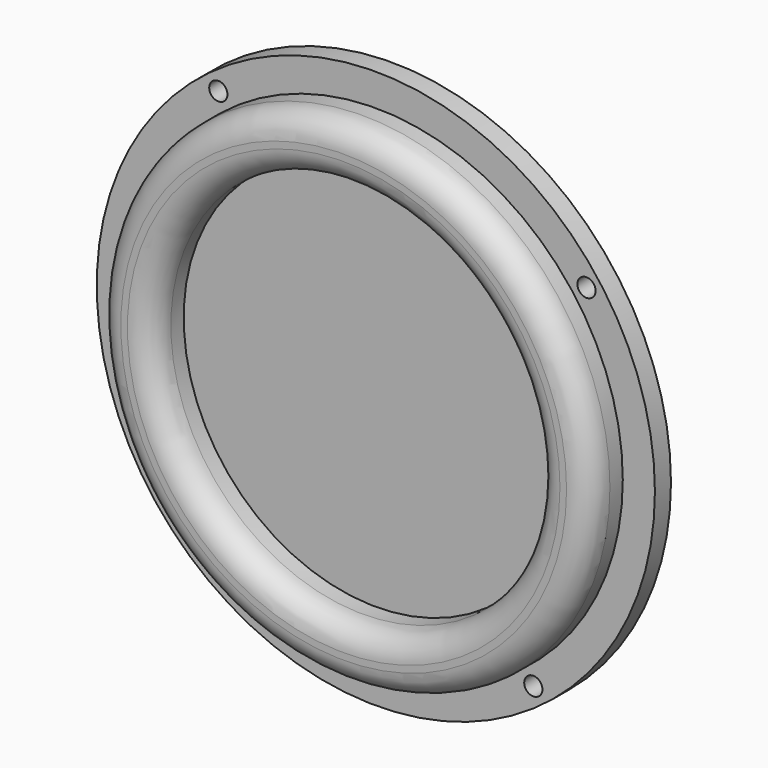
from build123d import *

# Parameters (mm, degrees)
F0_R     = 78.105
F0_R_2   = 60.772539
F1_DEPTH = 12.7
F0_R_3   = 88.265
F0_R_4   = 2.879872
F2_DEPTH = 6.35
F3_R     = 7.62
F4_DEPTH = 6.35


with BuildPart() as f1:
    # F0 (on Front) → F1 (new body)
    with BuildSketch(Plane.XZ):
        Circle(F0_R)
        Circle(F0_R_2, mode=Mode.SUBTRACT)
    extrude(amount=F1_DEPTH)

    # F3
    f3_edges = [f1.edges().sort_by_distance(p)[0] for p in [
        (-78.105, -12.7, 0),
        (-60.772539, -12.7, 0),
    ]]
    fillet(f3_edges, radius=F3_R)


with BuildPart() as f2:
    # F0 (on Front) → F2 (new body)
    with BuildSketch(Plane.XZ):
        Circle(F0_R_3)
        with Locations((-66.624288, -49.80912)):
            Circle(F0_R_4, mode=Mode.SUBTRACT)
        with Locations((49.80912, -66.624288)):
            Circle(F0_R_4, mode=Mode.SUBTRACT)
        with Locations((-49.80912, 66.624288)):
            Circle(F0_R_4, mode=Mode.SUBTRACT)
        Circle(F0_R, mode=Mode.SUBTRACT)
        with Locations((66.624288, 49.80912)):
            Circle(F0_R_4, mode=Mode.SUBTRACT)
    extrude(amount=-F2_DEPTH)


with BuildPart() as f4:
    # F0 (on Front) → F4 (new body)
    with BuildSketch(Plane.XZ):
        Circle(F0_R_2)
    extrude(amount=-F4_DEPTH)


solid = Compound([f1.part, f2.part, f4.part])
